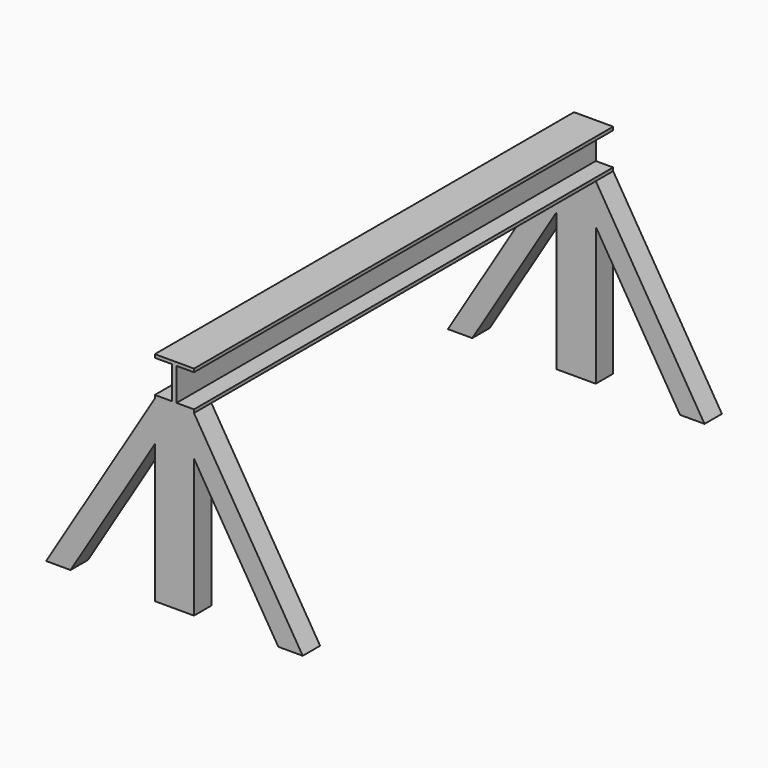
from build123d import *

# Parameters (mm, degrees)
F1_DEPTH = 2409
F3_DEPTH = 100
F5_DEPTH = 100


with BuildPart() as f1:
    # F0 (on Front) → F1 (new body)
    with BuildSketch(Plane.XZ):
        Polygon((-90, -90), (90, -90), (90, -75), (10, -75), (10, 75), (90, 75), (90, 90), (-90, 90), (-90, 75), (-10, 75), (-10, -75), (-90, -75), align=None)
    extrude(amount=-F1_DEPTH)

    # F2 (on Front) → F3 (join)
    with BuildSketch(Plane.XZ):
        Polygon((90, -274.244994), (90, -90), (-90, -90), (-90, -274.244994), (-90, -910), (90, -910), align=None)
        Polygon((590, -910), (90, -90), (90, -274.244994), (477.655492, -910), align=None)
        Polygon((-90, -274.244994), (-90, -90), (-590, -910), (-477.655492, -910), align=None)
    extrude(amount=-F3_DEPTH)

    # F4 (on face) → F5 (join)
    with BuildSketch(Plane(origin=(0, 2409, 0), x_dir=(-1, 0, 0), z_dir=(0, 1, 0))):
        Polygon((90, -910), (90, -274.244994), (477.655492, -910), (590, -910), (90, -90), (-90, -90), (-590, -910), (-477.655492, -910), (-90, -274.244994), (-90, -910), align=None)
    extrude(amount=-F5_DEPTH)


solid = f1.part
